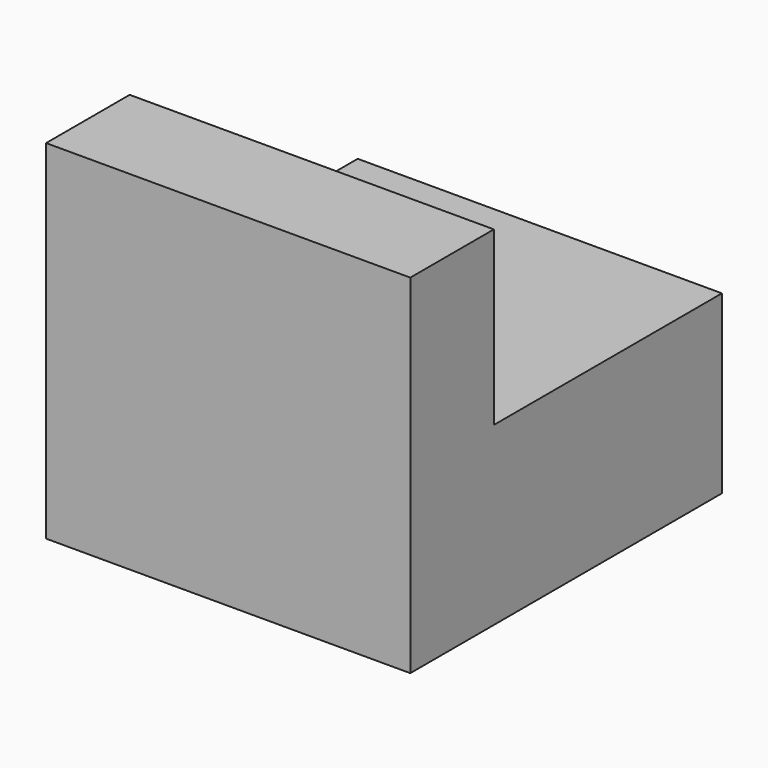
from build123d import *

# Parameters (mm, degrees)
F0_W     = 98.3195006847
F0_H     = 47.5294552743
F1_DEPTH = 105.156
F2_W     = 98.3195006847
F2_H     = 28.2054126678
F3_DEPTH = 46.482


with BuildPart() as f1:
    # F0 (on Front) → F1 (new body)
    with BuildSketch(Plane.XZ):
        with Locations((-0.6270371377, 23.7647276372)):
            Rectangle(F0_W, F0_H)
        with Locations((-0.6270371377, 23.7647276372)):
            Rectangle(F0_W, F0_H)
    extrude(amount=F1_DEPTH)

    # F2 (on face) → F3 (join)
    with BuildSketch(Plane.XY.offset(47.5294552743)):
        with Locations((-0.6270371377, -91.0532936661)):
            Rectangle(F2_W, F2_H)
    extrude(amount=F3_DEPTH)


solid = f1.part
